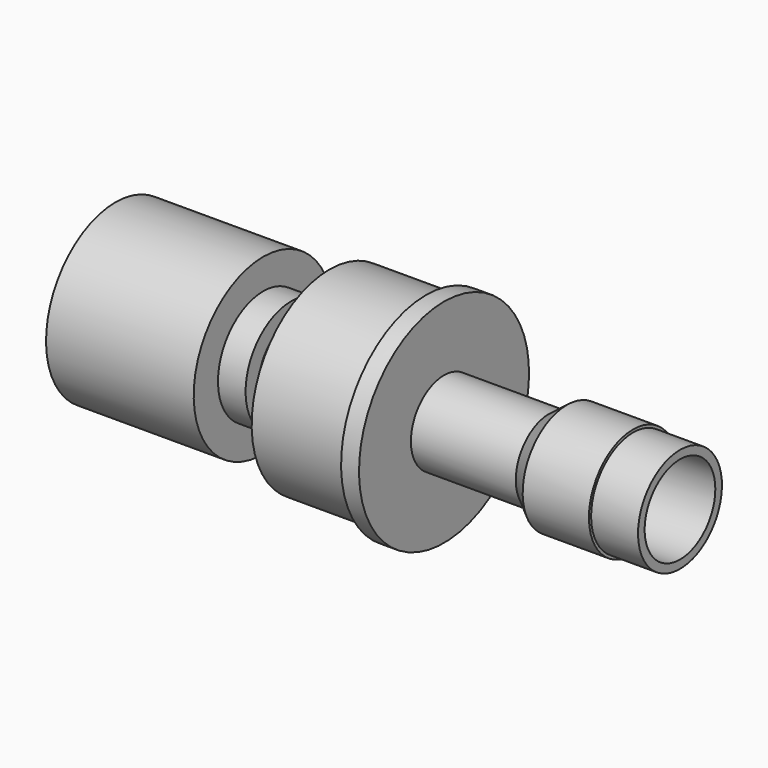
from build123d import *

# Parameters (mm, degrees)
F0_W     = 7.112
F0_H     = 7.366
F0_W_2   = 8.636
F0_H_2   = 9.652
F4_R     = 10.92
F5_DEPTH = 25.4
F6_R     = 8.128
F7_DEPTH = 16.51


with BuildPart() as f1:
    # F0 (on Front) → F1 (revolve)
    with BuildSketch(Plane.XZ):
        Polygon((-38.397264, 16), (-38.397264, 0), (-11.219264, 0), (-11.219264, 10.414), (-11.219264, 16), align=None)
    revolve(axis=Axis((-8.996764, 0, 0), (1, 0, 0)))

    # F0 (on Front) → F2 (revolve)
    with BuildSketch(Plane.XZ):
        Polygon((-11.219264, 10.414), (-11.219264, 0), (-6.139264, 0), (-6.139264, 7.366), (-6.139264, 10.414), align=None)
    revolve(axis=Axis((-8.996764, 0, 0), (1, 0, 0)))

    # F0 (on Front) → F3 (revolve)
    with BuildSketch(Plane.XZ):
        Polygon((0.972736, 7.366), (0.972736, 0), (18.752736, 0), (18.752736, 17.907), (0.972736, 17.907), align=None)
        Polygon((18.752736, 17.907), (18.752736, 0), (20.403736, 0), (22.054736, 0), (22.054736, 7.62), (22.054736, 19.558), (18.752736, 19.558), align=None)
        with Locations((-2.583264, 3.683)):
            Rectangle(F0_W, F0_H)
        Polygon((22.054736, 7.62), (22.054736, 0), (22.72404, 0), (41.33619, 0), (41.33619, 7.62), align=None)
        Polygon((41.33619, 7.62), (41.33619, 0), (44.660736, 0), (44.660736, 10.16), (41.358736, 7.62), align=None)
        Polygon((44.660736, 10.16), (44.660736, 0), (56.852736, 0), (56.852736, 9.652), (56.852736, 10.16), align=None)
        with Locations((61.170736, 4.826)):
            Rectangle(F0_W_2, F0_H_2)
    revolve(axis=Axis((-8.996764, 0, 0), (1, 0, 0)))

    # F4 (on face) → F5 (cut)
    with BuildSketch(Plane(origin=(-38.397264, 0, 0), x_dir=(0, -1, 0), z_dir=(-1, 0, 0))):
        Circle(F4_R)
    extrude(amount=-F5_DEPTH, mode=Mode.SUBTRACT)

    # F6 (on face) → F7 (cut)
    with BuildSketch(Plane.YZ.offset(65.488736)):
        Circle(F6_R)
    extrude(amount=-F7_DEPTH, mode=Mode.SUBTRACT)


solid = f1.part
